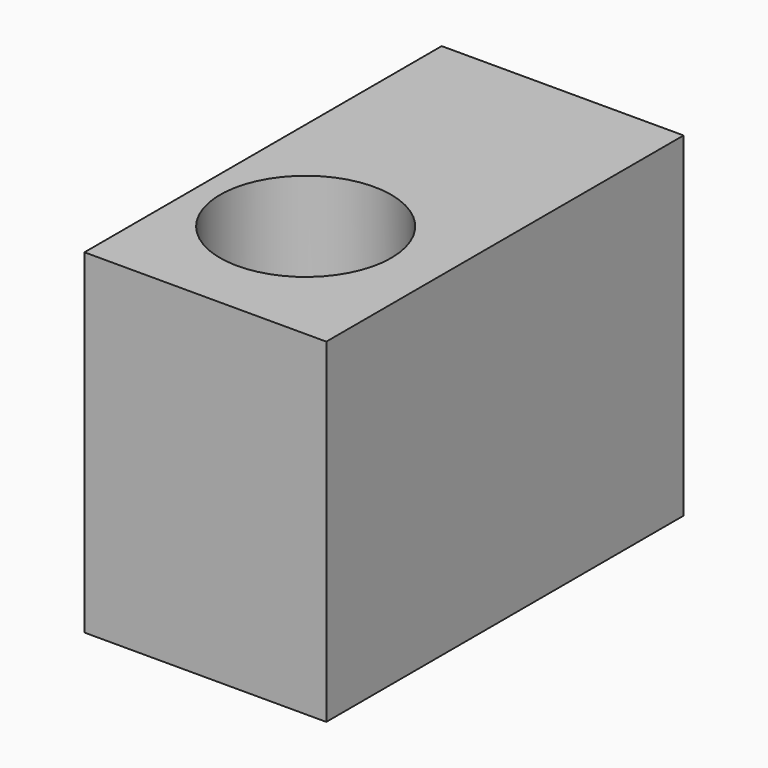
from build123d import *

# Parameters (mm, degrees)
F0_W     = 59.034545
F0_H     = 81.719361
F1_DEPTH = 109
F2_R     = 20.891032
F3_DEPTH = 40


with BuildPart() as f1:
    # F0 (on Front) → F1 (new body)
    with BuildSketch(Plane.XZ):
        with Locations((-70.320567, -5.541165)):
            Rectangle(F0_W, F0_H)
    extrude(amount=F1_DEPTH)

    # F2 (on face) → F3 (cut)
    with BuildSketch(Plane.XY.offset(35.318516)):
        with Locations((-73.595084, -74.303396)):
            Circle(F2_R)
    extrude(amount=-F3_DEPTH, mode=Mode.SUBTRACT)


solid = f1.part
